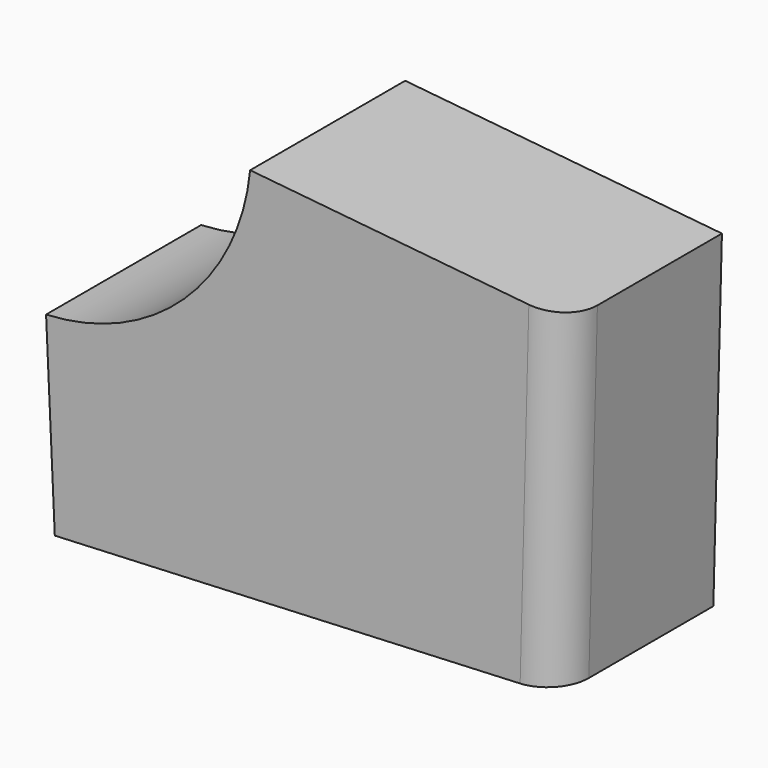
from build123d import *

# Parameters (mm, degrees)
F1_DEPTH = 25.4
F2_R     = 5


with BuildPart() as f1:
    # F0 (on Front) → F1 (new body)
    with BuildSketch(Plane.XZ):
        with BuildLine():
            ThreePointArc((-40.395132, 36.354515), (-49.048411, 18.696662), (-67.145093, 11.003214))
            Line((-67.145093, 11.003214), (-66.002764, -14.139596))
            Line((-66.002764, -14.139596), (0, -11.140851))
            Line((0, -11.140851), (1.122797, 32.227423))
            Line((1.122797, 32.227423), (-40.395132, 36.354515))
        make_face()
    extrude(amount=-F1_DEPTH)

    # F2
    f2_edges = [f1.edges().sort_by_distance(p)[0] for p in [
        (0.561399, 0, 10.543286),
    ]]
    fillet(f2_edges, radius=F2_R)


solid = f1.part
